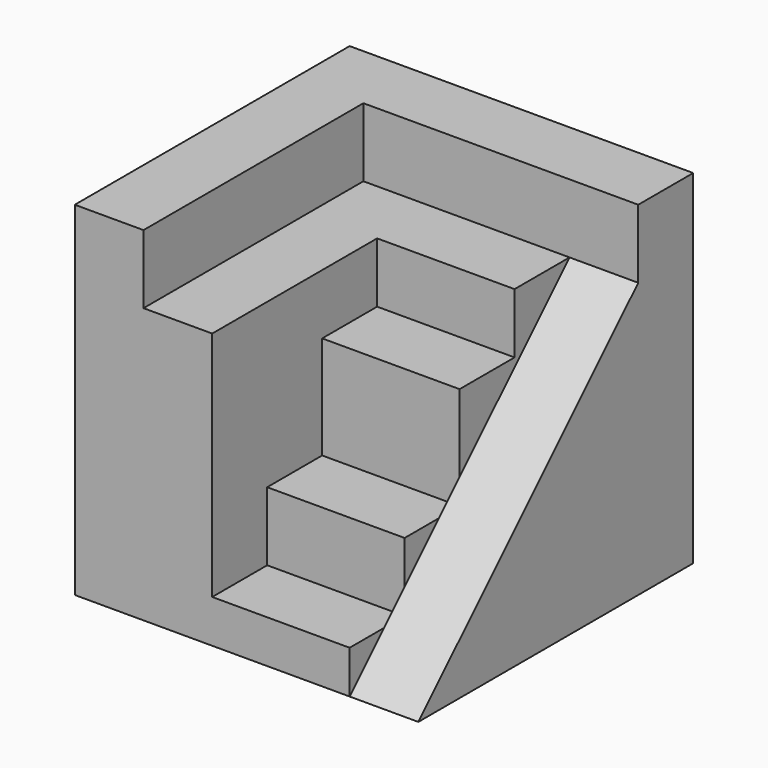
from build123d import *

# Parameters (mm, degrees)
F1_DEPTH = 32
F3_DEPTH = 25
F4_DEPTH = 40
F5_DEPTH = 32
F0_W     = 16
F0_H     = 8
F6_DEPTH = 25
F7_DEPTH = 13
F8_DEPTH = 5


with BuildPart() as f1:
    # F0 (on Top) → F1 (new body)
    with BuildSketch(Plane.XY):
        Polygon((12, -20), (20, -20), (20, 12), (12, 12), (12, 4), (12, -4), (12, -12), align=None)
    extrude(amount=F1_DEPTH)

    # F2 (on face) → F3 (cut)
    with BuildSketch(Plane.YZ.offset(20)):
        Polygon((-20, 0), (12, 32), (-20, 32), align=None)
    extrude(amount=-F3_DEPTH, mode=Mode.SUBTRACT)

    # F0 (on Top) → F4 (join)
    with BuildSketch(Plane.XY):
        Polygon((12, 12), (20, 12), (20, 20), (-12, 20), (-20, 20), (-20, -20), (-12, -20), (-12, 12), align=None)
    extrude(amount=F4_DEPTH)

    # F0 (on Top) → F5 (join)
    with BuildSketch(Plane.XY):
        Polygon((-12, -20), (-4, -20), (-4, -12), (-4, -4), (-4, 4), (12, 4), (12, 12), (-12, 12), align=None)
    extrude(amount=F5_DEPTH)

    # F0 (on Top) → F6 (join)
    with BuildSketch(Plane.XY):
        with Locations((4, 0)):
            Rectangle(F0_W, F0_H)
    extrude(amount=F6_DEPTH)

    # F0 (on Top) → F7 (join)
    with BuildSketch(Plane.XY):
        with Locations((4, -8)):
            Rectangle(F0_W, F0_H)
    extrude(amount=F7_DEPTH)

    # F0 (on Top) → F8 (join)
    with BuildSketch(Plane.XY):
        with Locations((4, -16)):
            Rectangle(F0_W, F0_H)
    extrude(amount=F8_DEPTH)


solid = f1.part
